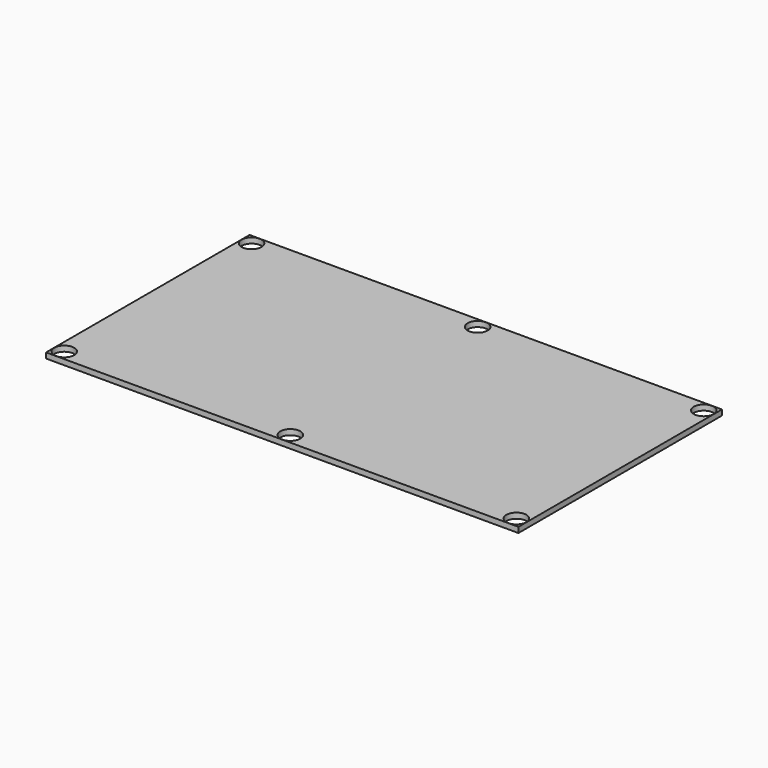
from build123d import *

# Parameters (mm, degrees)
F0_W     = 2340
F0_H     = 1260
F1_DEPTH = 27
F2_R     = 49.5
F3_DEPTH = 27.001


with BuildPart() as f1:
    # F0 (on Top) → F1 (new body)
    with BuildSketch(Plane.XY):
        with Locations((1170, 630)):
            Rectangle(F0_W, F0_H)
    extrude(amount=F1_DEPTH)

    # F2 (on face) → F3 (cut, through all)
    with BuildSketch(Plane.XY.offset(27)):
        with Locations((50, 1210)):
            Circle(F2_R)
        with Locations((1170, 1210)):
            Circle(F2_R)
        with Locations((2290, 1210)):
            Circle(F2_R)
        with Locations((2290, 50)):
            Circle(F2_R)
        with Locations((1170, 50)):
            Circle(F2_R)
        with Locations((50, 50)):
            Circle(F2_R)
    extrude(amount=-F3_DEPTH, mode=Mode.SUBTRACT)


solid = f1.part
